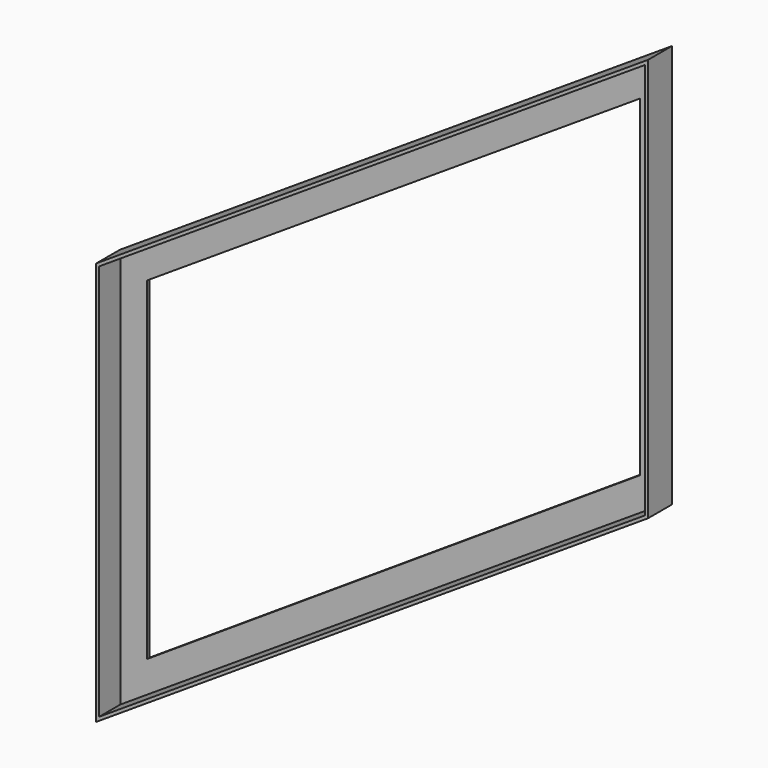
from build123d import *

# Parameters (mm, degrees)
F1_DEPTH = 50
F3_DEPTH = 45


with BuildPart() as f1:
    # F0 (on Front) → F1 (new body)
    with BuildSketch(Plane.XZ):
        Polygon((35, 802.75), (35, 122.75), (965, 727.25), (965, 1407.25), align=None)
        Polygon((915, 756.371666), (85, 214.10179), (85, 775.615698), (915, 1315.115698), align=None, mode=Mode.SUBTRACT)
    extrude(amount=F1_DEPTH)

    # F2 (on face) → F3 (cut)
    with BuildSketch(Plane.XZ.offset(50)):
        Polygon((40, 800.03657), (40, 131.96343), (960, 729.96343), (960, 1398.03657), align=None)
    extrude(amount=-F3_DEPTH, mode=Mode.SUBTRACT)


solid = f1.part
